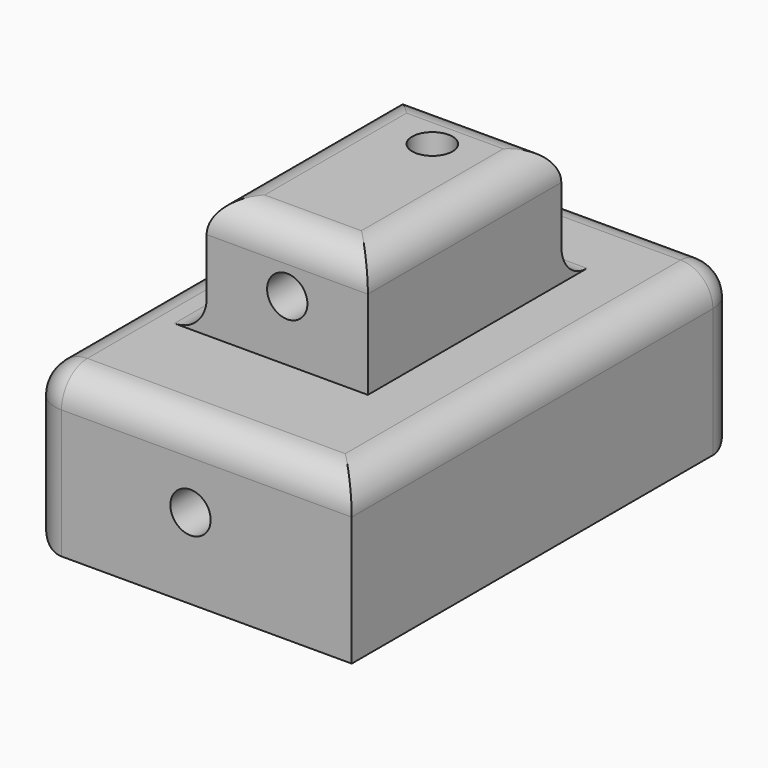
from build123d import *

# Parameters (mm, degrees)
F0_W     = 50.8
F0_H     = 25.4
F1_DEPTH = 76.2
F2_W     = 25.4
F2_H     = 38.1
F3_DEPTH = 19.05
F4_R     = 3.175
F5_DEPTH = 44.45
F6_R     = 3.175
F7_DEPTH = 76.2
F8_R     = 3.175
F9_DEPTH = 38.1
F10_R    = 5.08


with BuildPart() as f1:
    # F0 (on Front) → F1 (new body)
    with BuildSketch(Plane.XZ):
        with Locations((-25.4, 12.7)):
            Rectangle(F0_W, F0_H)
    extrude(amount=F1_DEPTH)

    # F2 (on face) → F3 (join)
    with BuildSketch(Plane.XY.offset(25.4)):
        with Locations((-25.4, -38.1)):
            Rectangle(F2_W, F2_H)
    extrude(amount=F3_DEPTH)

    # F4 (on face) → F5 (cut)
    with BuildSketch(Plane.XY.offset(44.45)):
        with Locations((-25.4, -28.575)):
            Circle(F4_R)
    extrude(amount=-F5_DEPTH, mode=Mode.SUBTRACT)

    # F6 (on face) → F7 (cut)
    with BuildSketch(Plane.XZ.offset(76.2)):
        with Locations((-25.4, 12.7)):
            Circle(F6_R)
    extrude(amount=-F7_DEPTH, mode=Mode.SUBTRACT)

    # F8 (on face) → F9 (cut)
    with BuildSketch(Plane.XZ.offset(57.15)):
        with Locations((-25.4, 34.925)):
            Circle(F8_R)
    extrude(amount=-F9_DEPTH, mode=Mode.SUBTRACT)

    # F10
    f10_edges = [f1.edges().sort_by_distance(p)[0] for p in [
        (-38.1, -38.1, 44.45),
        (-25.4, -19.05, 44.45),
        (-12.7, -38.1, 44.45),
        (-25.4, -57.15, 44.45),
        (-25.4, -19.05, 25.4),
        (-38.1, -38.1, 25.4),
        (-25.4, 0, 25.4),
        (0, 0, 12.7),
        (-25.4, 0, 0),
        (-50.8, 0, 12.7),
        (-50.8, -38.1, 25.4),
        (-50.8, -38.1, 0),
        (-50.8, -76.2, 12.7),
        (-25.4, -76.2, 25.4),
        (0, -38.1, 25.4),
    ]]
    fillet(f10_edges, radius=F10_R)


solid = f1.part
